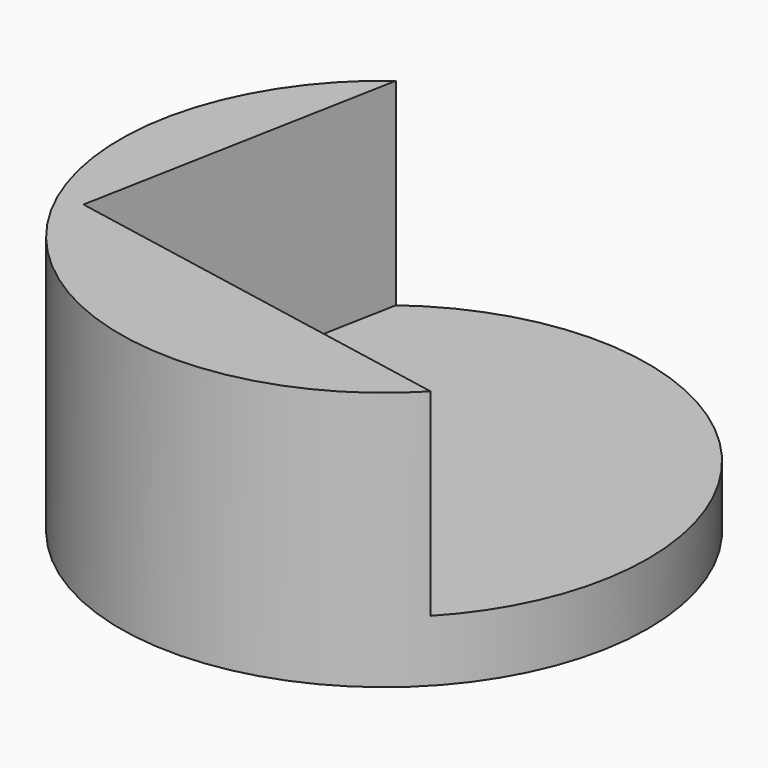
from build123d import *

# Parameters (mm, degrees)
F0_R     = 56.655061
F1_DEPTH = 55.626
F3_DEPTH = 42.418


with BuildPart() as f1:
    # F0 (on Top) → F1 (new body)
    with BuildSketch(Plane.XY):
        Circle(F0_R)
    extrude(amount=F1_DEPTH)

    # F2 (on face) → F3 (cut)
    with BuildSketch(Plane.XY.offset(55.626)):
        with BuildLine():
            Line((41.138674, -38.953887), (76.066886, -45.567513))
            Line((76.066886, -45.567513), (99.304504, 77.156152))
            Line((99.304504, 77.156152), (-23.419161, 100.393769))
            Line((-23.419161, 100.393769), (-33.822431, 45.451502))
            ThreePointArc((-33.822431, 45.451502), (25.432106, 50.626119), (56.655061, 0))
            ThreePointArc((56.655061, 0), (52.633212, -20.965231), (41.138674, -38.953887))
        make_face()
        with BuildLine():
            Line((-46.656779, -22.329896), (41.138674, -38.953887))
            ThreePointArc((41.138674, -38.953887), (52.633212, -20.965231), (56.655061, 0))
            ThreePointArc((56.655061, 0), (25.432106, 50.626119), (-33.822431, 45.451502))
            Line((-33.822431, 45.451502), (-46.656779, -22.329896))
        make_face()
    extrude(amount=-F3_DEPTH, mode=Mode.SUBTRACT)


solid = f1.part
